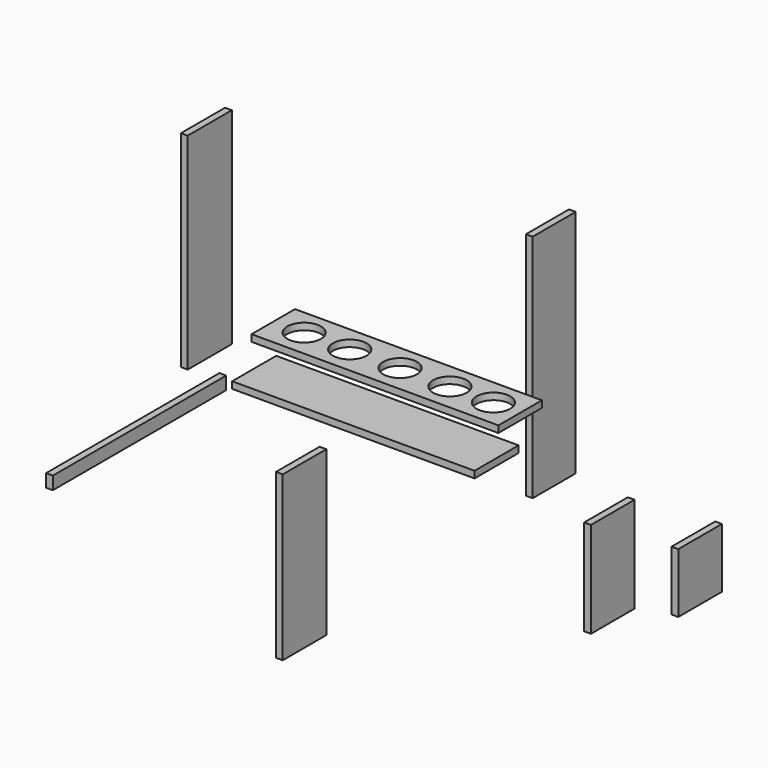
from build123d import *

# Parameters (mm, degrees)
F0_W      = 464.377426
F0_H      = 102.27714
F1_DEPTH  = 12.7
F3_D      = 63.5
F4_W      = 456.045419
F4_H      = 103.622362
F5_DEPTH  = 12.7
F6_W      = 101.202175
F6_H      = 433.137476
F7_DEPTH  = 12.7
F8_W      = 103.781164
F8_H      = 387.466371
F9_DEPTH  = 12.7
F10_W     = 102.682799
F10_H     = 307.933718
F10_W_2   = 102.682859
F10_H_2   = 180.371225
F11_DEPTH = 12.7
F12_W     = 102.682829
F12_H     = 112.36906
F13_DEPTH = 12.7
F14_W     = 407.711148
F14_H     = 24.260089
F15_DEPTH = 12.7


with BuildPart() as f1:
    # F0 (on Top) → F1 (new body)
    with BuildSketch(Plane.XY):
        with Locations((-54.193076, -60.832071)):
            Rectangle(F0_W, F0_H)
    extrude(amount=F1_DEPTH)

    # F3 (through all)
    with Locations(Plane.XY.offset(12.7)):
        with Locations((-229.189292, -59.764758), (-143.436149, -59.764758), (-48.708864, -59.764758), (45.02131, -59.764758), (126.785904, -59.764758)):
            Hole(F3_D / 2)


with BuildPart() as f5:
    # F4 (on Top) → F5 (new body)
    with BuildSketch(Plane.XY):
        with Locations((12.85243, -194.835)):
            Rectangle(F4_W, F4_H)
    extrude(amount=F5_DEPTH)


with BuildPart() as f7:
    # F6 (on Right) → F7 (new body)
    with BuildSketch(Plane.YZ):
        with Locations((225.893266, -61.918199)):
            Rectangle(F6_W, F6_H)
    extrude(amount=F7_DEPTH)


with BuildPart() as f9:
    # F8 (on Right) → F9 (new body)
    with BuildSketch(Plane.YZ):
        with Locations((-568.313271, 447.517067)):
            Rectangle(F8_W, F8_H)
    extrude(amount=-F9_DEPTH)


with BuildPart() as f11:
    # F10 (on Right) → F11 (new body)
    with BuildSketch(Plane.YZ):
        with Locations((-361.225114, -153.966859)):
            Rectangle(F10_W, F10_H)
        with Locations((363.594875, -468.564778)):
            Rectangle(F10_W_2, F10_H_2)
    extrude(amount=F11_DEPTH)


with BuildPart() as f13:
    # F12 (on Right) → F13 (new body)
    with BuildSketch(Plane.YZ):
        with Locations((568.960547, -558.170259)):
            Rectangle(F12_W, F12_H)
    extrude(amount=F13_DEPTH)


with BuildPart() as f15:
    # F14 (on Right) → F15 (new body)
    with BuildSketch(Plane.YZ):
        with Locations((-749.305785, 205.581672)):
            Rectangle(F14_W, F14_H)
    extrude(amount=F15_DEPTH)


solid = Compound([f1.part, f5.part, f7.part, f9.part, f11.part, f13.part, f15.part])
